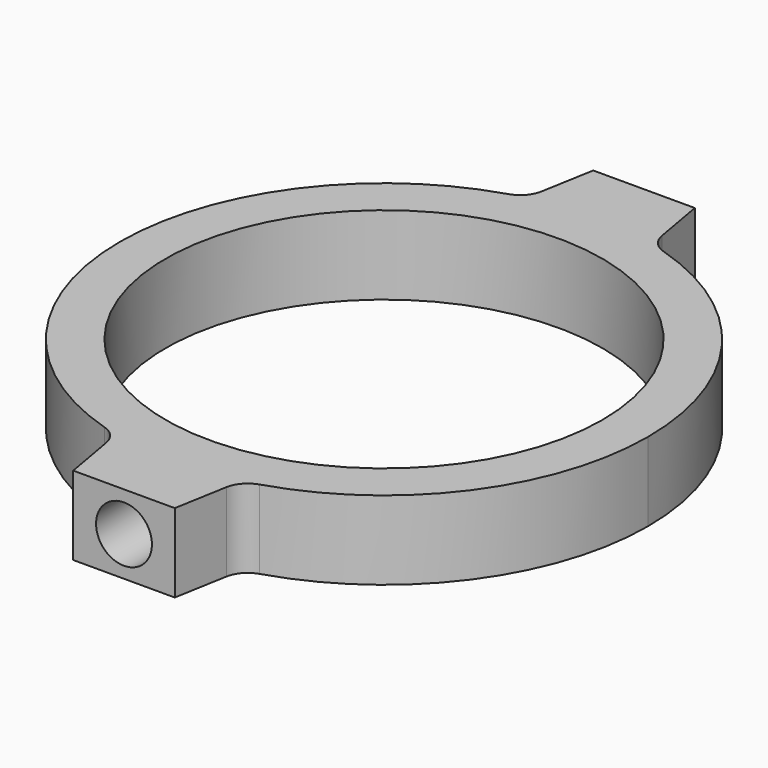
from build123d import *

# Parameters (mm, degrees)
SKETCH007_R    = 43
PAD002_DEPTH   = 7.75
SKETCH_R       = 5.5
HOLE001_DEPTH  = 15
HOLE001_TIPS_R = 5.5
SKETCH083_R    = 5.5
HOLE002_DEPTH  = 15
HOLE002_TIPS_R = 5.5


with BuildPart() as part:
    # Sketch007 → Pad002 (new body, symmetric)
    with BuildSketch(Plane.XY):
        with BuildLine():
            ThreePointArc((-15.28569, 49.702592), (-41.826163, 30.896149), (-52, 0))
            ThreePointArc((-52, 0), (-41.826156, -30.89613), (-15.285695, -49.702561))
            ThreePointArc((-11.831435, -53.613416), (-13.007952, -51.171659), (-15.285695, -49.702561))
            Line((-11.831435, -53.613416), (-10, -64))
            Line((-10, -64), (10, -64))
            Line((10, -64), (11.831435, -53.613416))
            ThreePointArc((15.285695, -49.702561), (13.007952, -51.171659), (11.831435, -53.613416))
            ThreePointArc((15.285695, -49.702561), (41.826156, -30.89613), (52, 0))
            ThreePointArc((52, 0), (41.826163, 30.896149), (15.28569, 49.702592))
            ThreePointArc((11.83143, 53.613447), (13.007947, 51.17169), (15.28569, 49.702592))
            Line((10, 64), (11.83143, 53.613447))
            Line((-10, 64), (10, 64))
            Line((-11.83143, 53.613447), (-10, 64))
            ThreePointArc((-15.28569, 49.702592), (-13.007947, 51.17169), (-11.83143, 53.613447))
        make_face()
        Circle(SKETCH007_R, mode=Mode.SUBTRACT)
    extrude(amount=PAD002_DEPTH, both=True)

    # Sketch (on Face6 of Pad002) → Hole001 (cut)
    with BuildSketch(Plane.XZ.offset(64)):
        Circle(SKETCH_R)
    extrude(amount=-HOLE001_DEPTH, mode=Mode.SUBTRACT)

    # Hole001 tips → Hole001 tip 1 section 0
    with BuildSketch(Plane.XZ.offset(49), mode=Mode.PRIVATE) as hole001_tip_1_s0:
        Circle(HOLE001_TIPS_R)
    loft([hole001_tip_1_s0.sketch, Vertex(0, -45.695267, 0)], mode=Mode.SUBTRACT)

    # Sketch083 (on Face7 of Hole001) → Hole002 (cut)
    with BuildSketch(Plane(origin=(0, 64, 0), x_dir=(-1, 0, 0), z_dir=(0, 1, 0))):
        Circle(SKETCH083_R)
    extrude(amount=-HOLE002_DEPTH, mode=Mode.SUBTRACT)

    # Hole002 tips → Hole002 tip 1 section 0
    with BuildSketch(Plane(origin=(0, 49, 0), x_dir=(-1, 0, 0), z_dir=(0, 1, 0)), mode=Mode.PRIVATE) as hole002_tip_1_s0:
        Circle(HOLE002_TIPS_R)
    loft([hole002_tip_1_s0.sketch, Vertex(0, 45.695267, 0)], mode=Mode.SUBTRACT)


solid = part.part
